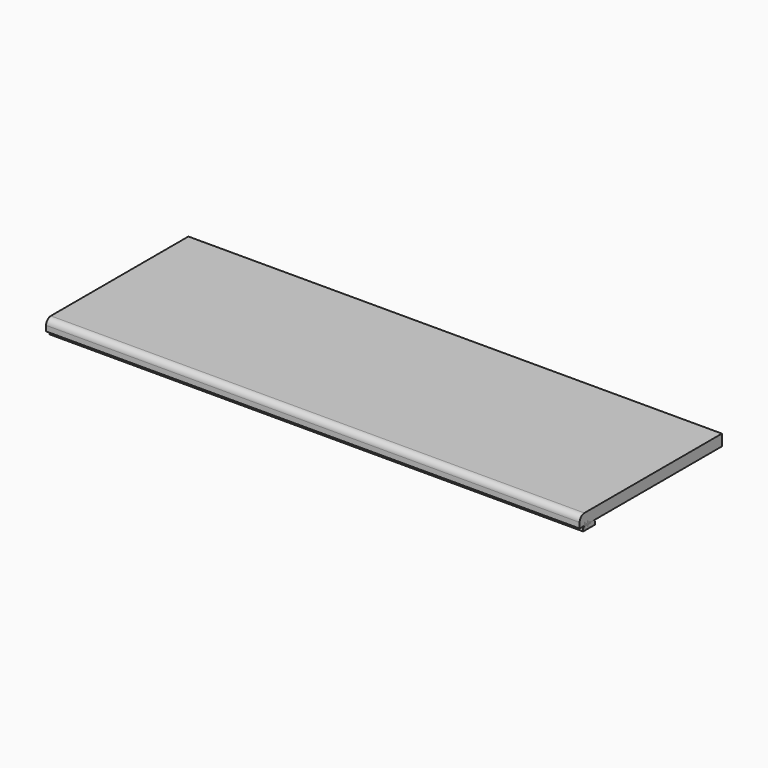
from build123d import *

# Parameters (mm, degrees)
F1_DEPTH = 900
F3_DEPTH = 900
F5_DEPTH = 900
F7_DEPTH = 900


with BuildPart() as f1:
    # F0 (on Right) → F1 (new body, symmetric)
    with BuildSketch(Plane.YZ):
        with BuildLine():
            Line((-20, 18), (-20, 0))
            Line((-20, 0), (580, 0))
            Line((580, 0), (580, 38))
            Line((580, 38), (0, 38))
            ThreePointArc((0, 38), (-14.1421356237, 32.1421356237), (-20, 18))
        make_face()
    extrude(amount=F1_DEPTH, both=True)


with BuildPart() as f3:
    # F2 (on Right) → F3 (new body, symmetric)
    with BuildSketch(Plane.YZ):
        Polygon((0, 10), (0, 0), (25, 0), (25, 3), (16, 3), (16, 10), (13, 10), (13, 3), (3, 3), (3, 10), align=None)
    extrude(amount=F3_DEPTH, both=True)


with BuildPart() as f5:
    # F4 (on Right) → F5 (new body, symmetric)
    with BuildSketch(Plane.YZ):
        Polygon((25, 0), (0, 0), (-5, -5), (-5, -15), (45, -15), (45, -5), (40, 0), align=None)
    extrude(amount=F5_DEPTH, both=True)


with BuildPart() as f7:
    # F6 (on Right) → F7 (new body, symmetric)
    with BuildSketch(Plane.YZ):
        Polygon((25, 0), (0, 0), (0, -10), (3, -10), (3, -3), (13, -3), (13, -10), (16, -10), (16, -3), (25, -3), align=None)
    extrude(amount=F7_DEPTH, both=True)


solid = Compound([f1.part, f3.part, f5.part, f7.part])
